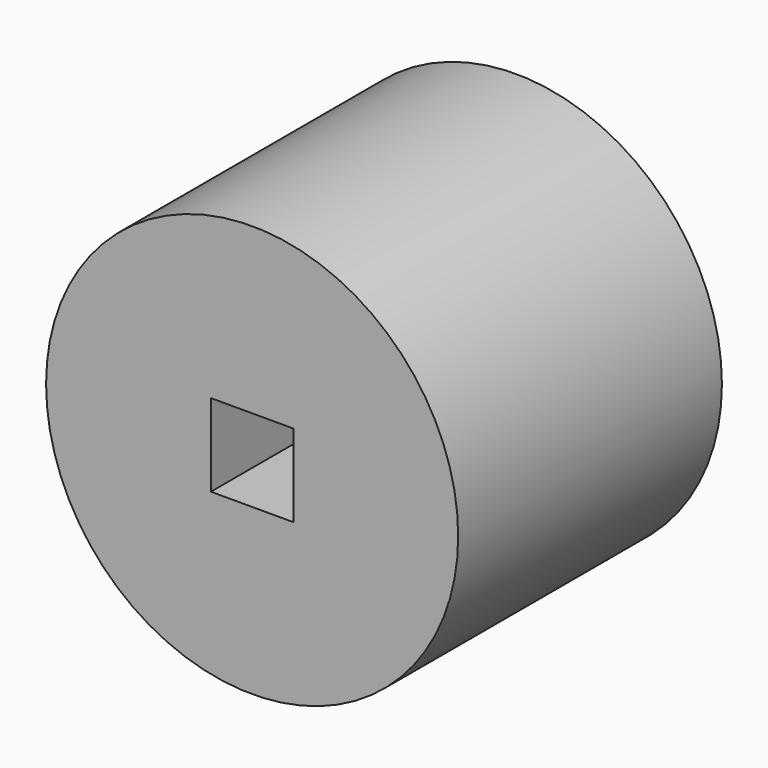
from build123d import *

# Parameters (mm, degrees)
F0_R     = 63.5
F0_W     = 25.4
F0_H     = 25.4
F1_DEPTH = 50.8
F2_DEPTH = 50.8


with BuildPart() as f1:
    # F0 (on Front) → F1 (new body)
    with BuildSketch(Plane.XZ):
        Circle(F0_R)
        Rectangle(F0_W, F0_H, mode=Mode.SUBTRACT)
    extrude(amount=F1_DEPTH)

    # F0 (on Front) → F2 (join)
    with BuildSketch(Plane.XZ):
        Circle(F0_R)
        Rectangle(F0_W, F0_H, mode=Mode.SUBTRACT)
    extrude(amount=-F2_DEPTH)


solid = f1.part
